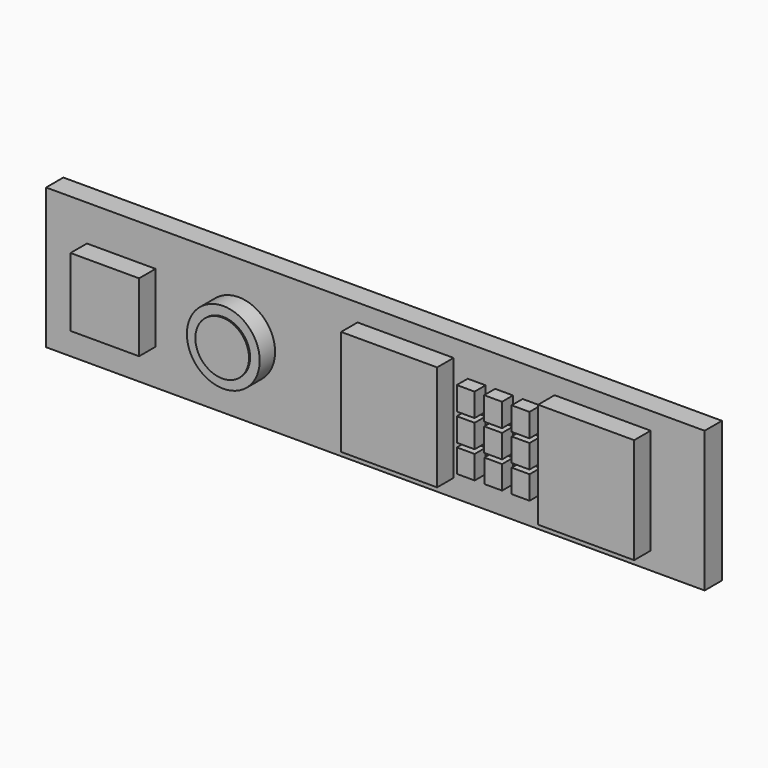
from build123d import *

# Parameters (mm, degrees)
F0_W      = 48
F0_H      = 10.25
F1_DEPTH  = 1.5748
F2_W      = 7
F2_H      = 7.7
F2_W_2    = 5
F2_H_2    = 5
F3_DEPTH  = 1.5
F4_DEPTH  = 1.5
F2_W_3    = 1.1
F2_H_3    = 1.25
F5_DEPTH  = 1
F6_DEPTH  = 1
F7_DEPTH  = 1
F8_DEPTH  = 1
F9_DEPTH  = 1
F10_DEPTH = 1
F11_DEPTH = 1
F12_DEPTH = 1
F13_DEPTH = 1
F2_R      = 2.6543
F14_DEPTH = 1.4
F15_R     = 1.956508
F16_DEPTH = 0.1


with BuildPart() as f1:
    # F0 (on Front) → F1 (new body)
    with BuildSketch(Plane.XZ):
        with Locations((24, -5.125)):
            Rectangle(F0_W, F0_H)
    extrude(amount=F1_DEPTH)


with BuildPart() as f3:
    # F2 (on face) → F3 (new body)
    with BuildSketch(Plane.XZ.offset(1.5748)):
        with Locations((26.202524, -5.125)):
            Rectangle(F2_W, F2_H)
        with Locations((5.479097, -5.125)):
            Rectangle(F2_W_2, F2_H_2)
    extrude(amount=F3_DEPTH)


with BuildPart() as f4:
    # F2 (on face) → F4 (new body)
    with BuildSketch(Plane.XZ.offset(1.5748)):
        with Locations((40.56276, -5.125)):
            Rectangle(F2_W, F2_H)
    extrude(amount=F4_DEPTH)


with BuildPart() as f5:
    # F2 (on face) → F5 (new body)
    with BuildSketch(Plane.XZ.offset(1.5748)):
        Polygon((30.832642, -3.625003), (30.732642, -3.625003), (30.732642, -3.975003), (32.032642, -3.975003), (32.032642, -3.625003), (31.932642, -3.625003), align=None)
        with Locations((31.382642, -3.000003)):
            Rectangle(F2_W_3, F2_H_3)
        Polygon((32.032642, -2.275003), (30.732642, -2.275003), (30.732642, -3.625003), (30.832642, -3.625003), (30.832642, -2.375003), (31.932642, -2.375003), (31.932642, -3.625003), (32.032642, -3.625003), align=None)
    extrude(amount=F5_DEPTH)


with BuildPart() as f6:
    # F2 (on face) → F6 (new body)
    with BuildSketch(Plane.XZ.offset(1.5748)):
        with Locations((33.382642, -3.000003)):
            Rectangle(F2_W_3, F2_H_3)
        Polygon((32.832642, -2.375003), (33.932642, -2.375003), (33.932642, -3.625003), (34.032642, -3.625003), (34.032642, -2.275003), (32.732642, -2.275003), (32.732642, -3.625003), (32.832642, -3.625003), align=None)
        Polygon((34.032642, -3.625003), (33.932642, -3.625003), (32.832642, -3.625003), (32.732642, -3.625003), (32.732642, -3.975003), (34.032642, -3.975003), align=None)
    extrude(amount=F6_DEPTH)


with BuildPart() as f7:
    # F2 (on face) → F7 (new body)
    with BuildSketch(Plane.XZ.offset(1.5748)):
        Polygon((34.832642, -2.375003), (35.932642, -2.375003), (35.932642, -3.625003), (36.032642, -3.625003), (36.032642, -2.275003), (34.732642, -2.275003), (34.732642, -3.625003), (34.832642, -3.625003), align=None)
        with Locations((35.382642, -3.000003)):
            Rectangle(F2_W_3, F2_H_3)
        Polygon((36.032642, -3.625003), (35.932642, -3.625003), (34.832642, -3.625003), (34.732642, -3.625003), (34.732642, -3.975003), (36.032642, -3.975003), align=None)
    extrude(amount=F7_DEPTH)


with BuildPart() as f8:
    # F2 (on face) → F8 (new body)
    with BuildSketch(Plane.XZ.offset(1.5748)):
        with Locations((31.386111, -5)):
            Rectangle(F2_W_3, F2_H_3)
        Polygon((30.836111, -4.375), (31.936111, -4.375), (31.936111, -5.625), (32.036111, -5.625), (32.036111, -4.275), (30.736111, -4.275), (30.736111, -5.625), (30.836111, -5.625), align=None)
        Polygon((32.036111, -5.625), (31.936111, -5.625), (30.836111, -5.625), (30.736111, -5.625), (30.736111, -5.975), (32.036111, -5.975), align=None)
    extrude(amount=F8_DEPTH)


with BuildPart() as f9:
    # F2 (on face) → F9 (new body)
    with BuildSketch(Plane.XZ.offset(1.5748)):
        Polygon((32.836111, -4.375), (33.936111, -4.375), (33.936111, -5.625), (34.036111, -5.625), (34.036111, -4.275), (32.736111, -4.275), (32.736111, -5.625), (32.836111, -5.625), align=None)
        with Locations((33.386111, -5)):
            Rectangle(F2_W_3, F2_H_3)
        Polygon((34.036111, -5.625), (33.936111, -5.625), (32.836111, -5.625), (32.736111, -5.625), (32.736111, -5.975), (34.036111, -5.975), align=None)
    extrude(amount=F9_DEPTH)


with BuildPart() as f10:
    # F2 (on face) → F10 (new body)
    with BuildSketch(Plane.XZ.offset(1.5748)):
        with Locations((35.386111, -5)):
            Rectangle(F2_W_3, F2_H_3)
        Polygon((36.036111, -5.625), (36.036111, -4.275), (34.736111, -4.275), (34.736111, -5.625), (34.836111, -5.625), (34.836111, -4.375), (35.936111, -4.375), (35.936111, -5.625), align=None)
        Polygon((36.036111, -5.975), (36.036111, -5.625), (35.936111, -5.625), (34.836111, -5.625), (34.736111, -5.625), (34.736111, -5.975), align=None)
    extrude(amount=F10_DEPTH)


with BuildPart() as f11:
    # F2 (on face) → F11 (new body)
    with BuildSketch(Plane.XZ.offset(1.5748)):
        Polygon((30.839579, -6.374997), (31.939579, -6.374997), (31.939579, -7.624997), (32.039579, -7.624997), (32.039579, -6.274997), (30.739579, -6.274997), (30.739579, -7.624997), (30.839579, -7.624997), align=None)
        with Locations((31.389579, -6.999997)):
            Rectangle(F2_W_3, F2_H_3)
        Polygon((32.039579, -7.624997), (31.939579, -7.624997), (30.839579, -7.624997), (30.739579, -7.624997), (30.739579, -7.974997), (32.039579, -7.974997), align=None)
    extrude(amount=F11_DEPTH)


with BuildPart() as f12:
    # F2 (on face) → F12 (new body)
    with BuildSketch(Plane.XZ.offset(1.5748)):
        with Locations((33.389579, -6.999997)):
            Rectangle(F2_W_3, F2_H_3)
        Polygon((32.839579, -6.374997), (33.939579, -6.374997), (33.939579, -7.624997), (34.039579, -7.624997), (34.039579, -6.274997), (32.739579, -6.274997), (32.739579, -7.624997), (32.839579, -7.624997), align=None)
        Polygon((34.039579, -7.624997), (33.939579, -7.624997), (32.839579, -7.624997), (32.739579, -7.624997), (32.739579, -7.974997), (34.039579, -7.974997), align=None)
    extrude(amount=F12_DEPTH)


with BuildPart() as f13:
    # F2 (on face) → F13 (new body)
    with BuildSketch(Plane.XZ.offset(1.5748)):
        Polygon((36.039579, -7.974997), (36.039579, -7.624997), (35.939579, -7.624997), (34.839579, -7.624997), (34.739579, -7.624997), (34.739579, -7.974997), align=None)
        Polygon((36.039579, -7.624997), (36.039579, -6.274997), (34.739579, -6.274997), (34.739579, -7.624997), (34.839579, -7.624997), (34.839579, -6.374997), (35.939579, -6.374997), (35.939579, -7.624997), align=None)
        with Locations((35.389579, -6.999997)):
            Rectangle(F2_W_3, F2_H_3)
    extrude(amount=F13_DEPTH)


with BuildPart() as f14:
    # F2 (on face) → F14 (new body)
    with BuildSketch(Plane.XZ.offset(1.5748)):
        with Locations((14.036181, -5.125)):
            Circle(F2_R)
    extrude(amount=F14_DEPTH)


with BuildPart() as f16:
    # F15 (on face) → F16 (new body)
    with BuildSketch(Plane.XZ.offset(2.9748)):
        with Locations((14.036181, -5.125)):
            Circle(F15_R)
    extrude(amount=F16_DEPTH)


solid = Compound([f1.part, f3.part, f4.part, f5.part, f6.part, f7.part, f8.part, f9.part, f10.part, f11.part, f12.part, f13.part, f14.part, f16.part])
